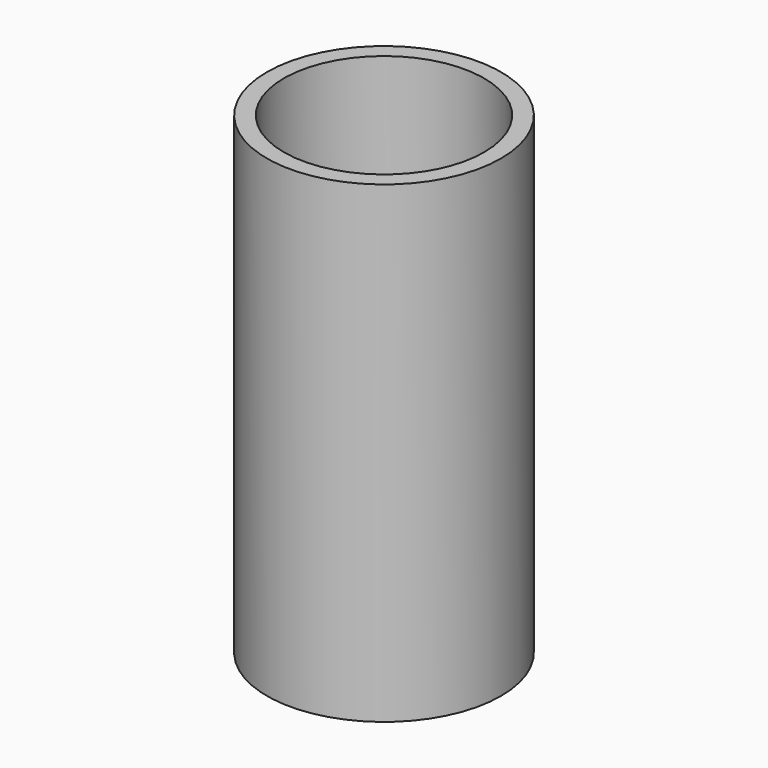
from build123d import *

# Parameters (mm, degrees)
F0_R     = 21.989216
F1_DEPTH = 88.9


with BuildPart() as f1:
    # F0 (on Top) → F1 (new body)
    with BuildSketch(Plane.XY):
        with Locations((97.613789, -210.013437)):
            Circle(F0_R)
        with BuildLine():
            ThreePointArc((109.090786, -224.921598), (80.733247, -201.705488), (116.428005, -210.013437))
            ThreePointArc((116.428005, -210.013437), (114.494331, -218.321386), (109.090786, -224.921598))
        make_face(mode=Mode.SUBTRACT)
    extrude(amount=F1_DEPTH)


solid = f1.part
